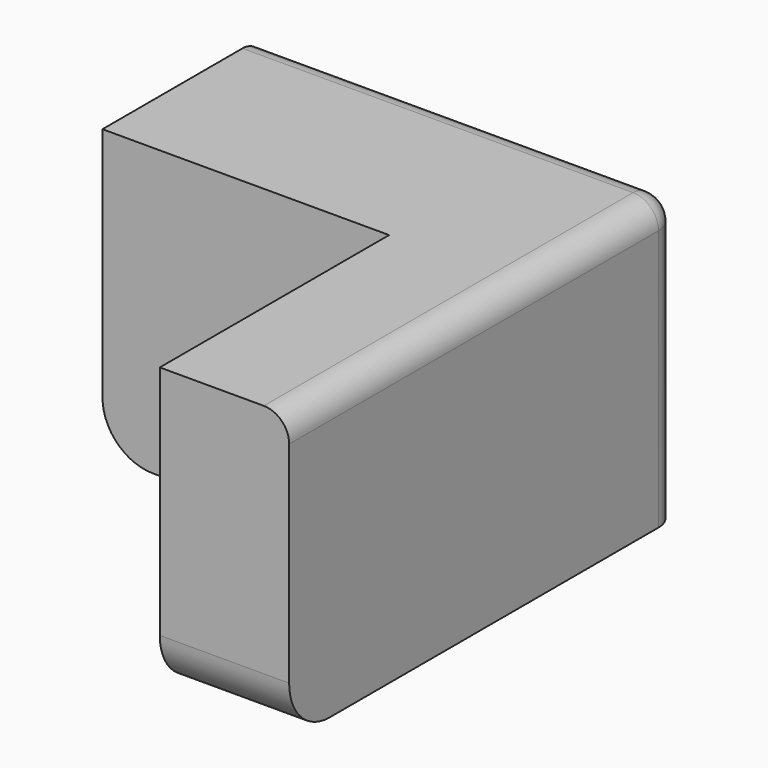
from build123d import *

# Parameters (mm, degrees)
F0_W     = 16.4
F0_H     = 19.2
F1_DEPTH = 11.3
F2_W     = 11.3
F2_H     = 11.3
F3_DEPTH = 25
F4_R     = 2
F5_R     = 1


with BuildPart() as f1:
    # F0 (on Top) → F1 (new body)
    with BuildSketch(Plane.XY):
        with Locations((8.2, 9.6)):
            Rectangle(F0_W, F0_H)
    extrude(amount=F1_DEPTH)

    # F2 (on face) → F3 (cut)
    with BuildSketch(Plane.XY.offset(11.3)):
        with Locations((5.65, 5.65)):
            Rectangle(F2_W, F2_H)
    extrude(amount=-F3_DEPTH, mode=Mode.SUBTRACT)

    # F4
    f4_edges = [f1.edges().sort_by_distance(p)[0] for p in [
        (13.85, 0, 0),
        (0, 15.25, 0),
    ]]
    fillet(f4_edges, radius=F4_R)

    # F5
    f5_edges = [f1.edges().sort_by_distance(p)[0] for p in [
        (8.2, 19.2, 11.3),
        (16.4, 9.6, 11.3),
        (16.4, 19.2, 5.65),
    ]]
    fillet(f5_edges, radius=F5_R)


solid = f1.part
